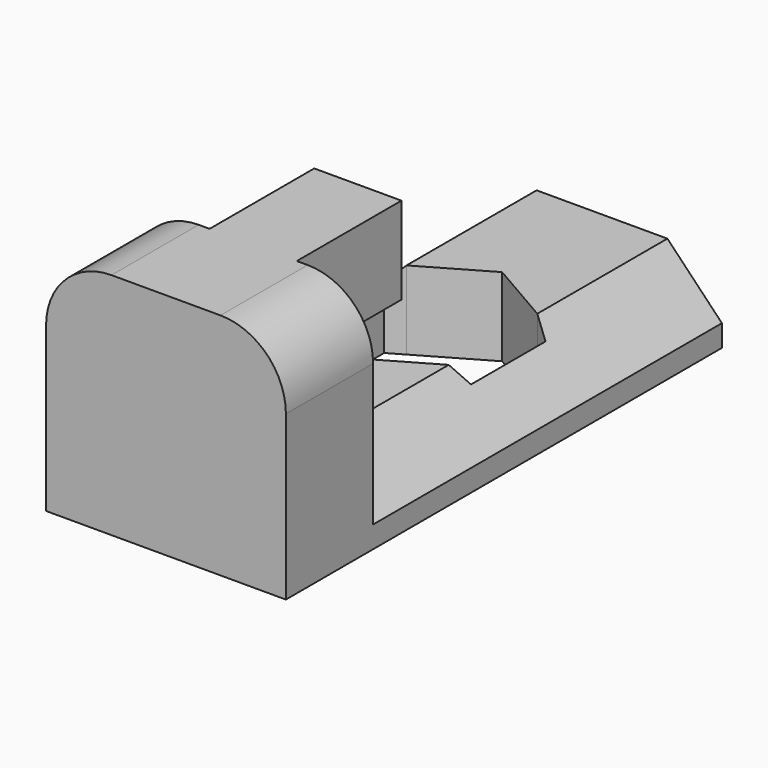
from build123d import *

# Parameters (mm, degrees)
F1_DEPTH = 20
F3_DEPTH = 3.6
F4_W     = 11
F4_H     = 5
F5_DEPTH = 10.5
F6_W     = 4
F6_H     = 4
F7_DEPTH = 6
F8_R     = 3


with BuildPart() as f1:
    # F0 (on Front) → F1 (new body)
    with BuildSketch(Plane.XZ):
        Polygon((-5.5, 0), (5.5, 0), (5.5, 1), (3, 3.6), (0, 3.6), (-3, 3.6), (-5.5, 1), align=None)
    extrude(amount=F1_DEPTH)

    # F2 (on face) → F3 (cut, through all)
    with BuildSketch(Plane.XY.offset(3.6)):
        Polygon((3, -7.459659), (0, -5.727608), (-3, -7.459659), (-3, -12.540341), (0, -14.272392), (3, -12.540341), align=None)
        Polygon((3.7, -7.863804), (3, -7.459659), (3, -12.540341), (3.7, -12.136196), align=None)
        Polygon((-3, -12.540341), (-3, -7.459659), (-3.7, -7.863804), (-3.7, -12.136196), align=None)
    extrude(amount=-F3_DEPTH, mode=Mode.SUBTRACT)

    # F4 (on face) → F5 (join)
    with BuildSketch(Plane(origin=(0, 0, 0), x_dir=(1, 0, 0), z_dir=(0, 0, -1))):
        with Locations((0, 22.5)):
            Rectangle(F4_W, F4_H)
    extrude(amount=-F5_DEPTH)

    # F6 (on face) → F7 (join)
    with BuildSketch(Plane(origin=(0, -20, 0), x_dir=(-1, 0, 0), z_dir=(0, 1, 0))):
        with Locations((0, 8.5)):
            Rectangle(F6_W, F6_H)
    extrude(amount=F7_DEPTH)

    # F8
    f8_edges = [f1.edges().sort_by_distance(p)[0] for p in [
        (-5.5, -22.5, 10.5),
        (5.5, -22.5, 10.5),
    ]]
    fillet(f8_edges, radius=F8_R)


solid = f1.part
